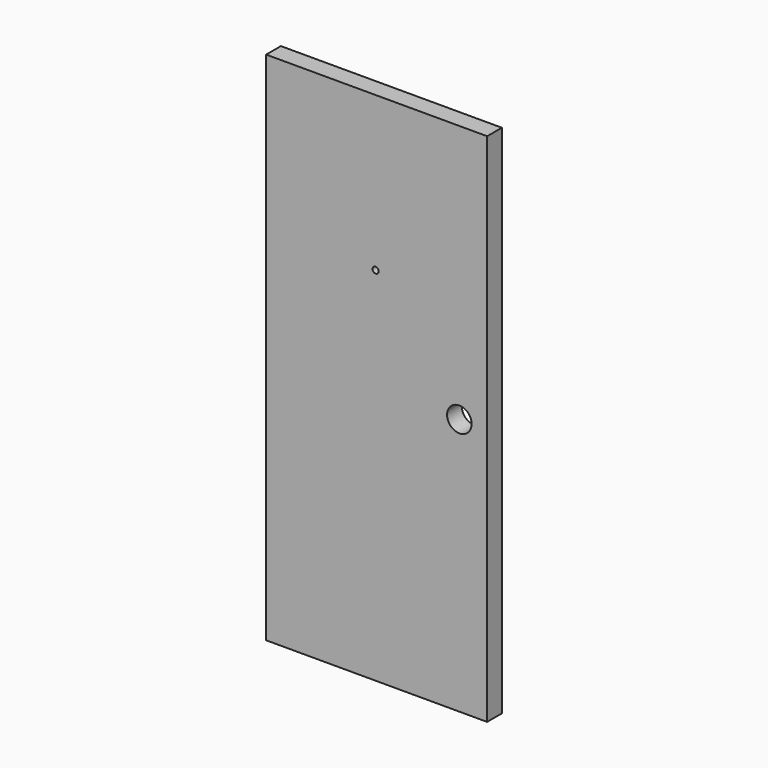
from build123d import *

# Parameters (mm, degrees)
F0_W     = 914.4
F0_H     = 2133.6
F4_DEPTH = 76.2
F6_D     = 101.6
F7_D     = 25.4
F8_DEPTH = 25.4
F2_W     = 152.4
F2_H     = 381
F9_DEPTH = 25.4


with BuildPart() as f4:
    # F0 (on Front) → F4 (new body)
    with BuildSketch(Plane.XZ):
        with Locations((457.2, 1066.8)):
            Rectangle(F0_W, F0_H)
    extrude(amount=F4_DEPTH)

    # F6 (through all)
    with Locations(Plane(origin=(0, 0, 0), x_dir=(1, 0, 0), z_dir=(0, 1, 0))):
        with Locations((799.4753718376, -1064.6243095398)):
            Hole(F6_D / 2)

    # F7 (through all)
    with Locations(Plane.XZ.offset(76.2)):
        with Locations((452.9111683369, 1495.7164525986)):
            Hole(F7_D / 2)

    # F1 (on Front) → F8 (cut)
    with BuildSketch(Plane.XZ):
        with BuildLine():
            ThreePointArc((787.4, 1708.7225914001), (457.2, 2038.9225914001), (127, 1708.7225914001))
            Line((127, 1708.7225914001), (787.4, 1708.7225914001))
        make_face()
    extrude(amount=F8_DEPTH, mode=Mode.SUBTRACT)

    # F2 (on Front) → F9 (cut)
    with BuildSketch(Plane.XZ):
        with Locations((331.3514550252, 907.5841558799)):
            Rectangle(F2_W, F2_H)
        with Locations((636.1514550252, 907.5841558799)):
            Rectangle(F2_W, F2_H)
        with Locations((331.3514550252, 399.5841558799)):
            Rectangle(F2_W, F2_H)
        with Locations((626.4034242401, 399.9588191742)):
            Rectangle(F2_W, F2_H)
    extrude(amount=F9_DEPTH, mode=Mode.SUBTRACT)


solid = f4.part
